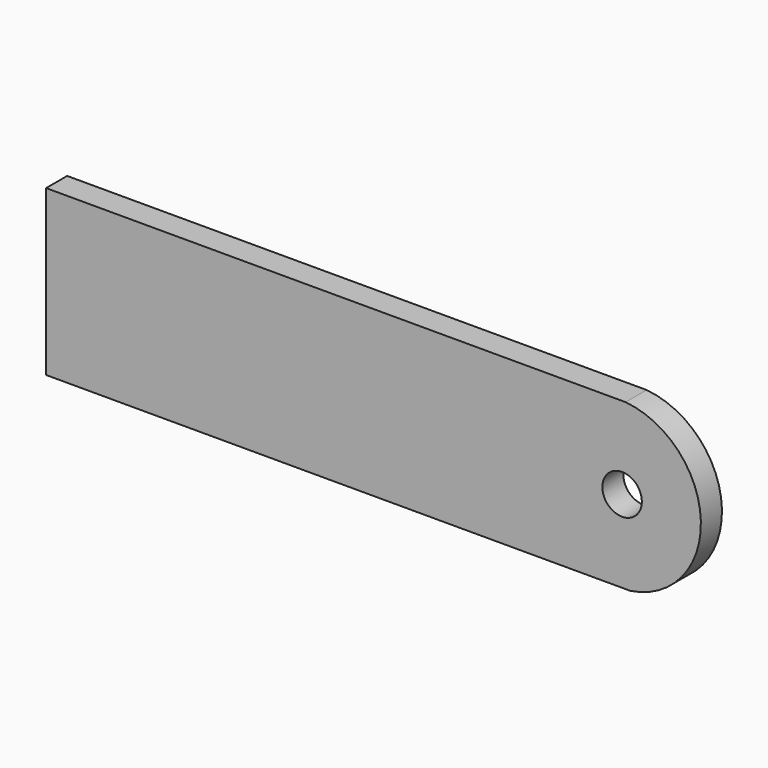
from build123d import *

# Parameters (mm, degrees)
F0_W     = 100
F0_H     = 25
F1_DEPTH = 4
F4_DEPTH = 4.001
F2_R     = 3
F5_DEPTH = 4.001


with BuildPart() as f1:
    # F0 (on Front) → F1 (new body)
    with BuildSketch(Plane.XZ):
        Rectangle(F0_W, F0_H)
    extrude(amount=F1_DEPTH)

    # F3 (on face) → F4 (cut, through all)
    with BuildSketch(Plane.XZ.offset(4)):
        with BuildLine():
            ThreePointArc((38.027449, 12.5), (49.463037, 0.321938), (38.754359, -12.5))
            Line((38.754359, -12.5), (50, -12.5))
            Line((50, -12.5), (50, 12.5))
            Line((50, 12.5), (38.027449, 12.5))
        make_face()
    extrude(amount=-F4_DEPTH, mode=Mode.SUBTRACT)

    # F2 (on face) → F5 (cut, through all)
    with BuildSketch(Plane.XZ.offset(4)):
        with Locations((37.5, 0)):
            Circle(F2_R)
    extrude(amount=-F5_DEPTH, mode=Mode.SUBTRACT)


solid = f1.part
